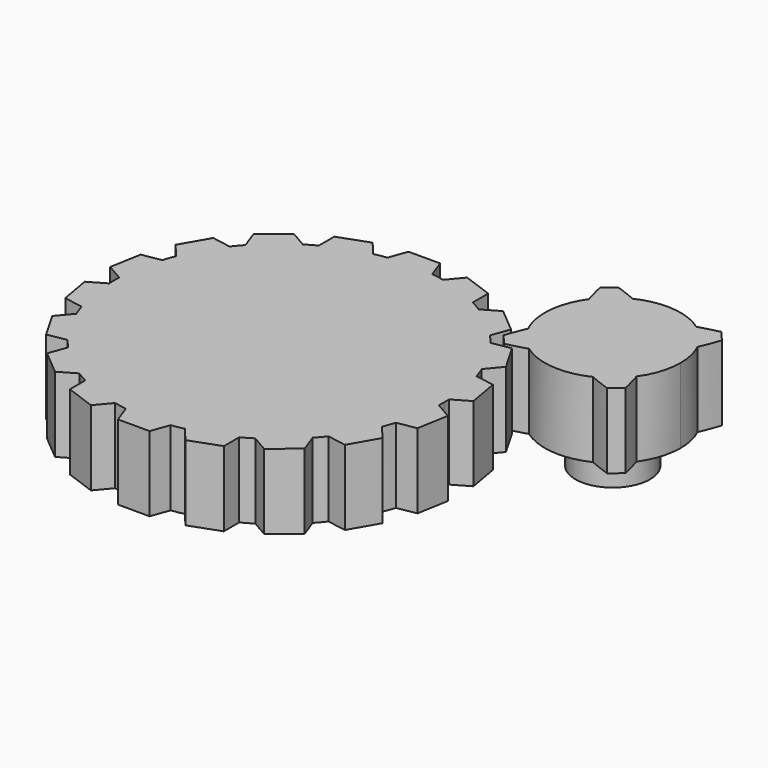
from build123d import *

# Parameters (mm, degrees)
F1_DEPTH = 12.7
F2_COUNT = 18
F4_DEPTH = 12.7
F5_COUNT = 4
F7_R     = 6.30981158
F8_DEPTH = 6.35


with BuildPart() as f1:
    # F0 (on Top) → F1 (new body)
    with BuildSketch(Plane.XY):
        with BuildLine():
            ThreePointArc((3.7920327935, 27.6814755259), (0, 27.94), (-3.7920327935, 27.6814755259))
            ThreePointArc((-3.7920327935, 27.6814755259), (-18.3670112396, -21.0546075272), (27.94, 0))
            ThreePointArc((27.94, 0), (21.0546075272, 18.3670112396), (3.7920327935, 27.6814755259))
        make_face()
        with BuildLine():
            add(Edge.make_bspline(
                [(-3.7920327935, 27.6814755259), (-3.4203963853, 28.7025381659), (-3.048759977, 29.7236008059), (-2.6771235687, 30.7446634458)],
                knots=[0, 0, 0, 0, 3.2597764973, 3.2597764973, 3.2597764973, 3.2597764973], degree=3))
            ThreePointArc((-3.7920327935, 27.6814755259), (0, 27.94), (3.7920327935, 27.6814755259))
            add(Edge.make_bspline(
                [(2.6771235687, 30.7446634458), (3.1613372665, 29.414297245), (3.6455509643, 28.0839310441), (3.7920327935, 27.6814755259)],
                knots=[0, 0, 0, 0, 0.8029231986, 0.8029231986, 0.8029231986, 0.8029231986], degree=3))
            add(Edge.make_bspline(
                [(-2.6771235687, 30.7446634458), (-0.8923745229, 30.7446634458), (0.8923745229, 30.7446634458), (2.6771235687, 30.7446634458)],
                knots=[0, 0, 0, 0, 5.3542471375, 5.3542471375, 5.3542471375, 5.3542471375], degree=3))
        make_face()
    extrude(amount=F1_DEPTH)

    # F2: F1 ×18 about axis
    f2_axis = Axis((0, 0, 0), (0, 0, -1))


with BuildPart() as f1_1:
    add(f1.part)
    for i in range(1, F2_COUNT):
        add(f1.part.rotate(f2_axis, i * 360 / F2_COUNT))


with BuildPart() as f4:
    # F3 (on Top) → F4 (new body)
    with BuildSketch(Plane.XY):
        with BuildLine():
            ThreePointArc((27.1270451004, 18.9945614687), (39.0687665651, 18.1387663257), (45.3004722893, 28.3614343059))
            ThreePointArc((45.3004722893, 28.3614343059), (31.2650678874, 39.5792522309), (23.4165533466, 23.4165533466))
            ThreePointArc((23.4165533466, 23.4165533466), (24.9898467062, 20.9689711543), (27.1270451004, 18.9945614687))
        make_face()
        with BuildLine():
            ThreePointArc((27.1270451004, 18.9945614687), (24.9898467062, 20.9689711543), (23.4165533466, 23.4165533466))
            ThreePointArc((23.4165533466, 23.4165533466), (22.7085888, 21.6768369933), (22.0742644378, 19.9089401092))
            Line((22.0742644378, 19.9089401092), (23.6503165215, 18.0696435273))
            ThreePointArc((23.6503165215, 18.0696435273), (25.396916523, 18.5011447943), (27.1270451004, 18.9945614687))
        make_face()
    extrude(amount=F4_DEPTH)

    # F5: F4 ×4 about axis
    f5_axis = Axis((33.7998412252, 28.3614343059, 0), (0, 0, -1))


with BuildPart() as f4_1:
    add(f4.part)
    for i in range(1, F5_COUNT):
        add(f4.part.rotate(f5_axis, i * 360 / F5_COUNT))

    # F6: union 

    # F7 (on face) → F8 (join)
    with BuildSketch(Plane(origin=(0, 0, 0), x_dir=(1, 0, 0), z_dir=(0, 0, -1))):
        with Locations((33.7998412252, -28.3614343059)):
            Circle(F7_R)
    extrude(amount=F8_DEPTH)


solid = Compound([f1_1.part, f4_1.part])
